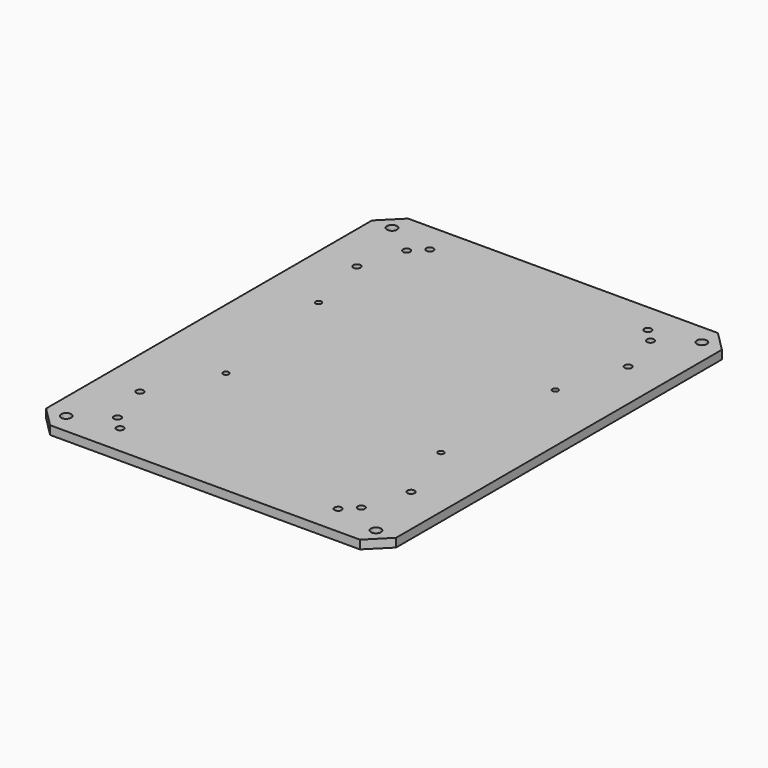
from build123d import *

# Parameters (mm, degrees)
PAD_DEPTH       = 3
SKETCH001_R     = 1.25
POCKET_DEPTH    = 3.001
SKETCH002_R     = 1.25
POCKET001_DEPTH = 3.001
SKETCH003_R     = 1
POCKET002_DEPTH = 3.001
SKETCH004_R     = 1.25
POCKET003_DEPTH = 3.001
SKETCH005_R     = 1.75
POCKET004_DEPTH = 3.001


with BuildPart() as part:
    # Sketch → Pad (new body)
    with BuildSketch(Plane.XY):
        Polygon((-61, 71), (-54, 78), (54, 78), (61, 71), (61, -71), (54, -78), (-54, -78), (-61, -71), align=None)
    extrude(amount=PAD_DEPTH)

    # Sketch001 (on Face10 of Pad) → Pocket (cut, through all)
    with BuildSketch(Plane.XY.offset(3)):
        with Locations((-42.5, 63)):
            Circle(SKETCH001_R)
        with Locations((42.5, 63)):
            Circle(SKETCH001_R)
        with Locations((-42.5, -63)):
            Circle(SKETCH001_R)
        with Locations((42.5, -63)):
            Circle(SKETCH001_R)
    extrude(amount=-POCKET_DEPTH, mode=Mode.SUBTRACT)

    # Sketch002 (on Face5 of Pocket) → Pocket001 (cut, through all)
    with BuildSketch(Plane.XY.offset(3)):
        with Locations((-38, 67.5)):
            Circle(SKETCH002_R)
        with Locations((38, 67.5)):
            Circle(SKETCH002_R)
        with Locations((38, -67.5)):
            Circle(SKETCH002_R)
        with Locations((-38, -67.5)):
            Circle(SKETCH002_R)
    extrude(amount=-POCKET001_DEPTH, mode=Mode.SUBTRACT)

    # Sketch003 (on Face5 of Pocket001) → Pocket002 (cut, through all)
    with BuildSketch(Plane.XY.offset(3)):
        with Locations((-42.12, 24.13)):
            Circle(SKETCH003_R)
        with Locations((-35.77, -24.13)):
            Circle(SKETCH003_R)
        with Locations((40.43, 24.13)):
            Circle(SKETCH003_R)
        with Locations((39.16, -24.13)):
            Circle(SKETCH003_R)
    extrude(amount=-POCKET002_DEPTH, mode=Mode.SUBTRACT)

    # Sketch004 (on Face5 of Pocket002) → Pocket003 (cut, through all)
    with BuildSketch(Plane.XY.offset(3)):
        with Locations((-47.28, 47.28)):
            Circle(SKETCH004_R)
        with Locations((47.28, 47.28)):
            Circle(SKETCH004_R)
        with Locations((-47.28, -47.28)):
            Circle(SKETCH004_R)
        with Locations((47.28, -47.28)):
            Circle(SKETCH004_R)
    extrude(amount=-POCKET003_DEPTH, mode=Mode.SUBTRACT)

    # Sketch005 (on Face5 of Pocket003) → Pocket004 (cut, through all)
    with BuildSketch(Plane.XY.offset(3)):
        with Locations((-54, 71)):
            Circle(SKETCH005_R)
        with Locations((54, 71)):
            Circle(SKETCH005_R)
        with Locations((-54, -71)):
            Circle(SKETCH005_R)
        with Locations((54, -71)):
            Circle(SKETCH005_R)
    extrude(amount=-POCKET004_DEPTH, mode=Mode.SUBTRACT)


solid = part.part
